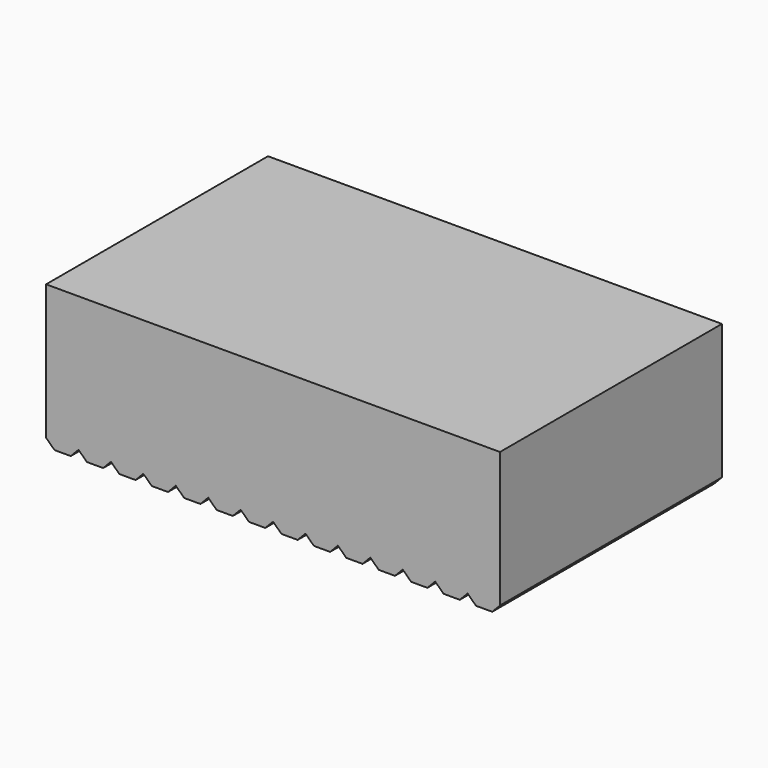
from build123d import *

# Parameters (mm, degrees)
F0_W     = 90
F0_H     = 55
F1_DEPTH = 30
F3_DEPTH = 90
F5_DEPTH = 60


with BuildPart() as f1:
    # F0 (on Top) → F1 (new body)
    with BuildSketch(Plane.XY):
        with Locations((45, -27.5)):
            Rectangle(F0_W, F0_H)
    extrude(amount=F1_DEPTH)

    # F2 (on face) → F3 (cut)
    with BuildSketch(Plane.XZ.offset(55)):
        Polygon((3.3461908971, 0), (0, 3.2115780663), (0, 0), align=None)
        Polygon((6.4285714286, 3.2115780663), (3.3461908971, 0), (9.7747623256, 0), align=None)
        Polygon((12.8571428571, 3.2115780663), (9.7747623256, 0), (16.2033337542, 0), align=None)
        Polygon((19.2857142857, 3.2115780663), (16.2033337542, 0), (22.6319051828, 0), align=None)
        Polygon((25.7142857143, 3.2115780663), (22.6319051828, 0), (29.0604766113, 0), align=None)
        Polygon((32.1428571429, 3.2115780663), (29.0604766113, 0), (35.4890480399, 0), align=None)
        Polygon((38.5714285714, 3.2115780663), (35.4890480399, 0), (41.9176194685, 0), align=None)
        Polygon((45, 3.2115780663), (41.9176194685, 0), (48.3461908971, 0), align=None)
        Polygon((51.4285714286, 3.2115780663), (48.3461908971, 0), (54.7747623256, 0), align=None)
        Polygon((54.7747623256, 0), (61.2033337542, 0), (57.8571428571, 3.2115780663), align=None)
        Polygon((61.2033337542, 0), (67.6319051828, 0), (64.2857142857, 3.2115780663), align=None)
        Polygon((67.6319051828, 0), (74.0604766113, 0), (70.7142857143, 3.2115780663), align=None)
        Polygon((74.0604766113, 0), (80.4890480399, 0), (77.1428571429, 3.2115780663), align=None)
        Polygon((80.4890480399, 0), (86.9176194685, 0), (83.5714285714, 3.2115780663), align=None)
        Polygon((90, 0), (90, 3.2115780663), (86.9176194685, 0), align=None)
    extrude(amount=-F3_DEPTH, mode=Mode.SUBTRACT)

    # F4 (on face) → F5 (cut)
    with BuildSketch(Plane.XZ.offset(55)):
        Polygon((0, 1.6057890331), (0, 0), (3.3461908971, 0), (1.6730954485, 1.6057890331), align=None)
        Polygon((90, 1.6057890331), (88.4588097342, 1.6057890331), (86.9176194685, 0), (90, 0), align=None)
        Polygon((4.8873811628, 1.6057890331), (3.3461908971, 0), (9.7747623256, 0), (8.1016668771, 1.6057890331), align=None)
        Polygon((11.3159525914, 1.6057890331), (9.7747623256, 0), (16.2033337542, 0), (14.5302383057, 1.6057890331), align=None)
        Polygon((24.1730954485, 1.6057890331), (22.6319051828, 0), (29.0604766113, 0), (27.3873811628, 1.6057890331), align=None)
        Polygon((30.6016668771, 1.6057890331), (29.0604766113, 0), (35.4890480399, 0), (33.8159525914, 1.6057890331), align=None)
        Polygon((37.0302383057, 1.6057890331), (35.4890480399, 0), (41.9176194685, 0), (40.24452402, 1.6057890331), align=None)
        Polygon((43.4588097342, 1.6057890331), (41.9176194685, 0), (48.3461908971, 0), (46.6730954485, 1.6057890331), align=None)
        Polygon((49.8873811628, 1.6057890331), (48.3461908971, 0), (54.7747623256, 0), (53.1016668771, 1.6057890331), align=None)
        Polygon((56.3159525914, 1.6057890331), (54.7747623256, 0), (61.2033337542, 0), (59.5302383057, 1.6057890331), align=None)
        Polygon((62.74452402, 1.6057890331), (61.2033337542, 0), (67.6319051828, 0), (65.9588097342, 1.6057890331), align=None)
        Polygon((67.6319051828, 0), (74.0604766113, 0), (72.3873811628, 1.6057890331), (69.1730954485, 1.6057890331), align=None)
        Polygon((74.0604766113, 0), (80.4890480399, 0), (78.8159525914, 1.6057890331), (75.6016668771, 1.6057890331), align=None)
        Polygon((86.9176194685, 0), (85.24452402, 1.6057890331), (82.0302383057, 1.6057890331), (80.4890480399, 0), align=None)
        Polygon((1.6730954485, 1.6057890331), (3.3461908971, 0), (4.8873811628, 1.6057890331), align=None)
        Polygon((8.1016668771, 1.6057890331), (9.7747623256, 0), (11.3159525914, 1.6057890331), align=None)
        Polygon((14.5302383057, 1.6057890331), (16.2033337542, 0), (17.74452402, 1.6057890331), align=None)
        Polygon((20.9588097342, 1.6057890331), (22.6319051828, 0), (24.1730954485, 1.6057890331), align=None)
        Polygon((27.3873811628, 1.6057890331), (29.0604766113, 0), (30.6016668771, 1.6057890331), align=None)
        Polygon((33.8159525914, 1.6057890331), (35.4890480399, 0), (37.0302383057, 1.6057890331), align=None)
        Polygon((40.24452402, 1.6057890331), (41.9176194685, 0), (43.4588097342, 1.6057890331), align=None)
        Polygon((46.6730954485, 1.6057890331), (48.3461908971, 0), (49.8873811628, 1.6057890331), align=None)
        Polygon((53.1016668771, 1.6057890331), (54.7747623256, 0), (56.3159525914, 1.6057890331), align=None)
        Polygon((59.5302383057, 1.6057890331), (61.2033337542, 0), (62.74452402, 1.6057890331), align=None)
        Polygon((65.9588097342, 1.6057890331), (67.6319051828, 0), (69.1730954485, 1.6057890331), align=None)
        Polygon((72.3873811628, 1.6057890331), (74.0604766113, 0), (75.6016668771, 1.6057890331), align=None)
        Polygon((80.4890480399, 0), (82.0302383057, 1.6057890331), (78.8159525914, 1.6057890331), align=None)
        Polygon((86.9176194685, 0), (88.4588097342, 1.6057890331), (85.24452402, 1.6057890331), align=None)
    extrude(amount=-F5_DEPTH, mode=Mode.SUBTRACT)


solid = f1.part
